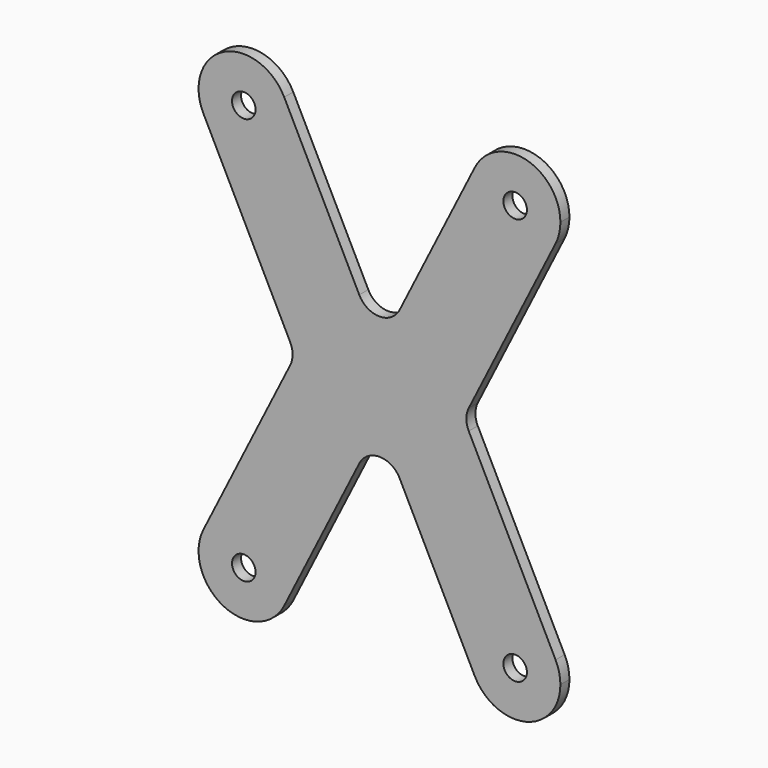
from build123d import *

# Parameters (mm, degrees)
F0_R     = 3.302
F1_DEPTH = 3.175


with BuildPart() as f1:
    # F0 (on Front) → F1 (new body)
    with BuildSketch(Plane.XZ):
        with BuildLine():
            ThreePointArc((-26.74832, 62.844678), (-25.741676, 60.07606), (-25.4, 57.15))
            ThreePointArc((-25.4, 57.15), (-35.17394, 44.791676), (-49.45168, 51.455322))
            Line((-49.45168, 51.455322), (-25.067027, 2.847339))
            ThreePointArc((-25.067027, 2.847339), (-24.392867, 0), (-25.067027, -2.847339))
            Line((-25.067027, -2.847339), (-49.45168, -51.455322))
            ThreePointArc((-49.45168, -51.455322), (-35.17394, -44.791676), (-25.4, -57.15))
            ThreePointArc((-25.4, -57.15), (-25.741676, -60.07606), (-26.74832, -62.844678))
            Line((-26.74832, -62.844678), (-5.67584, -20.83913))
            ThreePointArc((-5.67584, -20.83913), (0, -17.336469), (5.67584, -20.83913))
            Line((5.67584, -20.83913), (26.74832, -62.844678))
            ThreePointArc((26.74832, -62.844678), (32.405322, -45.79832), (49.45168, -51.455322))
            Line((49.45168, -51.455322), (25.067027, -2.847339))
            ThreePointArc((25.067027, -2.847339), (24.392867, 0), (25.067027, 2.847339))
            Line((25.067027, 2.847339), (49.45168, 51.455322))
            ThreePointArc((49.45168, 51.455322), (32.405322, 45.79832), (26.74832, 62.844678))
            Line((26.74832, 62.844678), (5.67584, 20.83913))
            ThreePointArc((5.67584, 20.83913), (0, 17.336469), (-5.67584, 20.83913))
            Line((-5.67584, 20.83913), (-26.74832, 62.844678))
        make_face()
        with BuildLine():
            ThreePointArc((-49.45168, 51.455322), (-35.17394, 44.791676), (-25.4, 57.15))
            ThreePointArc((-25.4, 57.15), (-25.741676, 60.07606), (-26.74832, 62.844678))
            ThreePointArc((-26.74832, 62.844678), (-43.794678, 68.50168), (-49.45168, 51.455322))
        make_face()
        with Locations((-38.1, 57.15)):
            Circle(F0_R, mode=Mode.SUBTRACT)
        with BuildLine():
            ThreePointArc((50.8, 57.15), (41.02606, 69.508324), (26.74832, 62.844678))
            ThreePointArc((26.74832, 62.844678), (32.405322, 45.79832), (49.45168, 51.455322))
            ThreePointArc((49.45168, 51.455322), (50.458324, 54.22394), (50.8, 57.15))
        make_face()
        with Locations((38.1, 57.15)):
            Circle(F0_R, mode=Mode.SUBTRACT)
        with BuildLine():
            ThreePointArc((50.8, -57.15), (50.458324, -54.22394), (49.45168, -51.455322))
            ThreePointArc((49.45168, -51.455322), (32.405322, -45.79832), (26.74832, -62.844678))
            ThreePointArc((26.74832, -62.844678), (41.02606, -69.508324), (50.8, -57.15))
        make_face()
        with Locations((38.1, -57.15)):
            Circle(F0_R, mode=Mode.SUBTRACT)
        with BuildLine():
            ThreePointArc((-25.4, -57.15), (-35.17394, -44.791676), (-49.45168, -51.455322))
            ThreePointArc((-49.45168, -51.455322), (-43.794678, -68.50168), (-26.74832, -62.844678))
            ThreePointArc((-26.74832, -62.844678), (-25.741676, -60.07606), (-25.4, -57.15))
        make_face()
        with Locations((-38.1, -57.15)):
            Circle(F0_R, mode=Mode.SUBTRACT)
    extrude(amount=F1_DEPTH)


solid = f1.part
